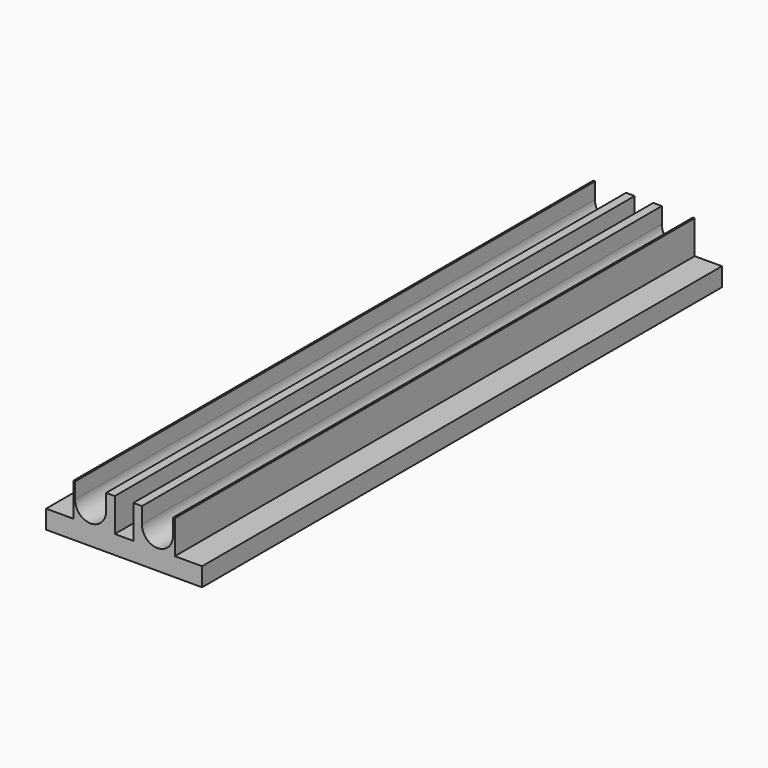
from build123d import *

# Parameters (mm, degrees)
F1_DEPTH = 350


with BuildPart() as f1:
    # F0 (on Front) → F1 (new body)
    with BuildSketch(Plane.XZ):
        with BuildLine():
            Line((-9.656821, 5.487433), (-9.656821, 4.812567))
            ThreePointArc((-9.656821, 4.812567), (-9.65, 5.15), (-9.656821, 5.487433))
        make_face()
        with BuildLine():
            Line((-42, -14), (42, -14))
            Line((42, -14), (42, -4))
            Line((42, -4), (27.345447, -4))
            Line((27.345447, -4), (27.345447, 14))
            Line((27.345447, 14), (26.345447, 14))
            Line((26.345447, 14), (26.345447, 5.425711))
            ThreePointArc((26.345447, 5.425711), (17.987329, -3.19999), (9.655428, 5.451038))
            Line((9.655428, 5.451038), (9.655428, 14))
            Line((9.655428, 14), (5, 14))
            Line((5, 14), (5, -4))
            Line((5, -4), (-5, -4))
            Line((-5, -4), (-5, 14))
            Line((-5, 14), (-9.656821, 14))
            Line((-9.656821, 14), (-9.656821, 5.487433))
            ThreePointArc((-9.656821, 5.487433), (-9.65, 5.15), (-9.656821, 4.812567))
            ThreePointArc((-9.656821, 4.812567), (-18.316515, -3.193999), (-26.344766, 5.445596))
            Line((-26.344766, 5.445596), (-26.344766, 14))
            Line((-26.344766, 14), (-27.344766, 14))
            Line((-27.344766, 14), (-27.344766, -4))
            Line((-27.344766, -4), (-42, -4))
            Line((-42, -4), (-42, -14))
        make_face()
    extrude(amount=F1_DEPTH)


solid = f1.part
